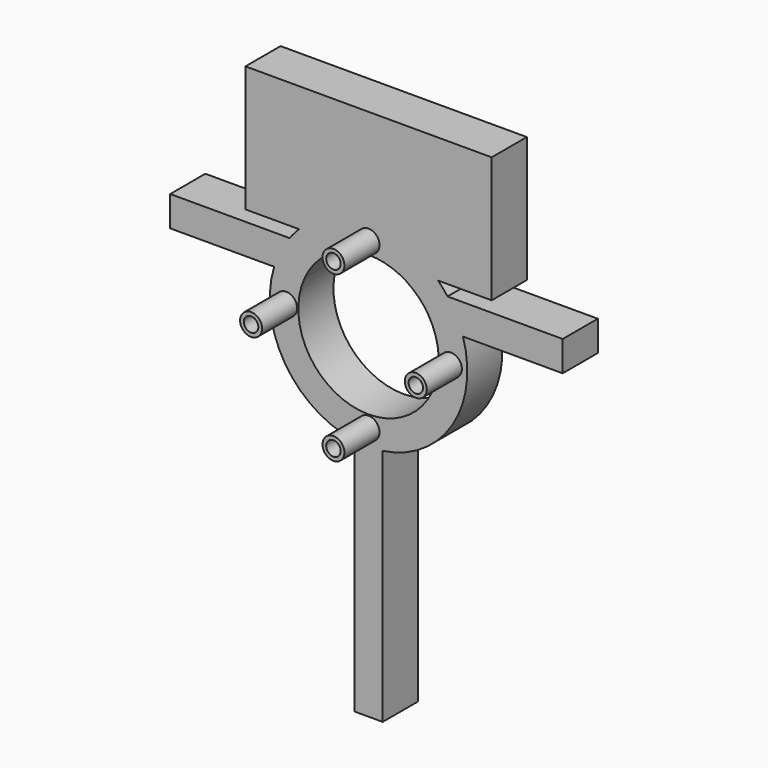
from build123d import *

# Parameters (mm, degrees)
F0_R     = 5.715
F0_R_2   = 4.064
F1_DEPTH = 2.54
F2_R     = 0.635
F2_R_2   = 0.4191
F3_DEPTH = 2.54
F5_DEPTH = 2.54
F7_DEPTH = 2.54
F9_DEPTH = 2.54


with BuildPart() as f1:
    # F0 (on Front) → F1 (new body)
    with BuildSketch(Plane.XZ):
        with Locations((0, 23.195567)):
            Circle(F0_R)
        with Locations((0, 23.195567)):
            Circle(F0_R_2, mode=Mode.SUBTRACT)
    extrude(amount=F1_DEPTH)

    # F2 (on face) → F3 (join)
    with BuildSketch(Plane.XZ.offset(2.54)):
        with Locations((0, 27.962195)):
            Circle(F2_R)
        with Locations((0, 27.962195)):
            Circle(F2_R_2, mode=Mode.SUBTRACT)
        with Locations((-4.766628, 23.195567)):
            Circle(F2_R)
        with Locations((-4.766628, 23.195567)):
            Circle(F2_R_2, mode=Mode.SUBTRACT)
        with Locations((0, 18.428938)):
            Circle(F2_R)
        with Locations((0, 18.428938)):
            Circle(F2_R_2, mode=Mode.SUBTRACT)
        with Locations((4.766628, 23.195567)):
            Circle(F2_R)
        with Locations((4.766628, 23.195567)):
            Circle(F2_R_2, mode=Mode.SUBTRACT)
    extrude(amount=F3_DEPTH)

    # F4 (on face) → F5 (join)
    with BuildSketch(Plane(origin=(0, 0, 0), x_dir=(-1, 0, 0), z_dir=(0, 1, 0))):
        Polygon((-7.125023, 27.259567), (0, 27.259567), (7.12503, 27.259567), (7.12503, 34.545776), (-7.125023, 34.545776), align=None)
    extrude(amount=-F5_DEPTH)

    # F6 (on face) → F7 (join)
    with BuildSketch(Plane(origin=(0, 0, 0), x_dir=(-1, 0, 0), z_dir=(0, 1, 0))):
        Polygon((0.818666, 18.264024), (0, 18.264024), (-0.818667, 18.264024), (-0.818667, 3.730329), (0.818666, 3.730329), align=None)
    extrude(amount=-F7_DEPTH)

    # F8 (on face) → F9 (join)
    with BuildSketch(Plane(origin=(0, 0, 0), x_dir=(-1, 0, 0), z_dir=(0, 1, 0))):
        with BuildLine():
            Line((-2.178273, 26.626488), (-11.233678, 26.626488))
            Line((-11.233678, 26.626488), (-11.233678, 24.87598))
            Line((-11.233678, 24.87598), (-3.700312, 24.87598))
            ThreePointArc((-3.700312, 24.87598), (-3.06684, 25.862135), (-2.178273, 26.626488))
        make_face()
        with BuildLine():
            Line((11.478047, 24.87598), (11.478047, 26.626488))
            Line((11.478047, 26.626488), (2.178273, 26.626488))
            ThreePointArc((2.178273, 26.626488), (3.06684, 25.862135), (3.700312, 24.87598))
            Line((3.700312, 24.87598), (11.478047, 24.87598))
        make_face()
    extrude(amount=-F9_DEPTH)


solid = f1.part
